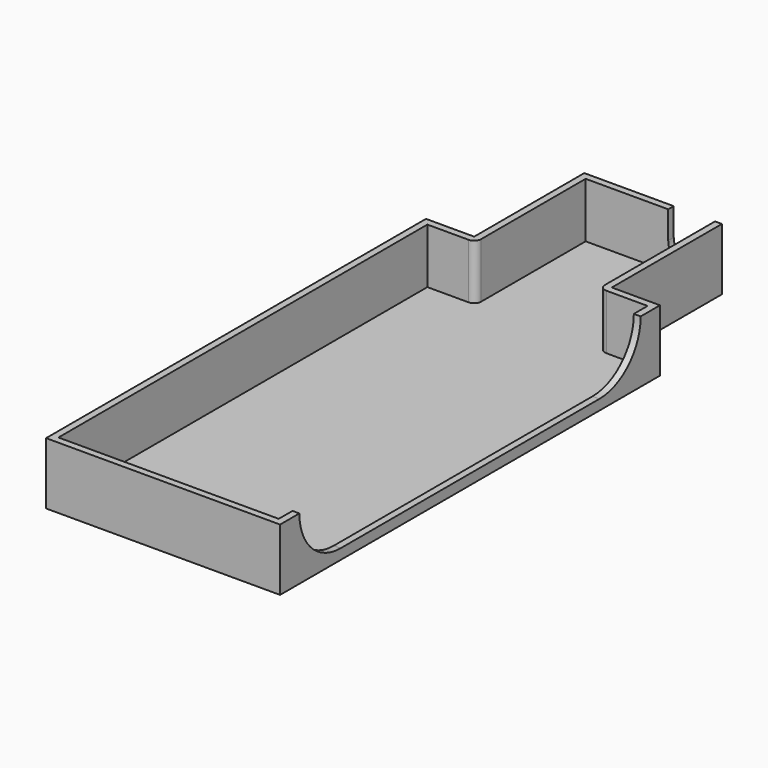
from build123d import *

# Parameters (mm, degrees)
PAD005_DEPTH    = 9
THICKNESS001_T  = -1
POCKET003_DEPTH = 1
POCKET004_DEPTH = 1


with BuildPart() as part:
    # Sketch008 → Pad005 (new body)
    with BuildSketch(Plane.XY):
        Polygon((20.318948, 34.5), (27.318948, 34.5), (27.318948, 54.5), (47.318948, 54.5), (47.318948, 34.5), (54.318948, 34.5), (54.318948, -34.5), (20.318948, -34.5), align=None)
    extrude(amount=PAD005_DEPTH)

    # Thickness001
    thickness001_openings = [part.faces().sort_by_distance(p)[0] for p in [
        (37.318948, 6.482156, 9),
    ]]
    offset(amount=THICKNESS001_T, openings=thickness001_openings)

    # Sketch009 (on Face3 of Thickness001) → Pocket003 (cut)
    with BuildSketch(Plane(origin=(0, 54.5, 0), x_dir=(-1, 0, 0), z_dir=(0, 1, 0))):
        with BuildLine():
            ThreePointArc((-40.318948, 9), (-43.318948, 12), (-46.318948, 9))
            Line((-46.318948, 9), (-46.318948, 5))
            ThreePointArc((-46.318948, 5), (-43.318948, 2), (-40.318948, 5))
            Line((-40.318948, 9), (-40.318948, 5))
        make_face()
    extrude(amount=-POCKET003_DEPTH, mode=Mode.SUBTRACT)

    # Sketch010 (on Face10 of Pocket003) → Pocket004 (cut)
    with BuildSketch(Plane.YZ.offset(54.318948)):
        with BuildLine():
            ThreePointArc((23.5, 1.5), (31, 9), (23.5, 16.5))
            Line((23.5, 16.5), (-23.5, 16.5))
            ThreePointArc((-23.5, 16.5), (-31, 9), (-23.5, 1.5))
            Line((23.5, 1.5), (-23.5, 1.5))
        make_face()
    extrude(amount=-POCKET004_DEPTH, mode=Mode.SUBTRACT)


solid = part.part
